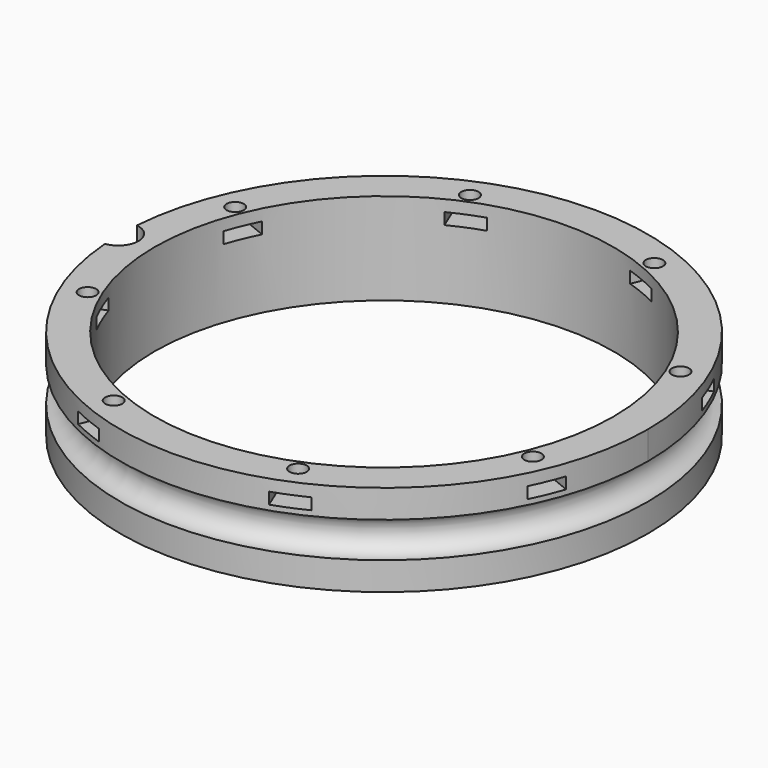
from build123d import *

# Parameters (mm, degrees)
BOX331_W                    = 6
BOX331_H                    = 8
BOX331_DEPTH                = 2
BOX331_PLACEMENT_ANGLE      = 45
BOX329_W                    = 6
BOX329_H                    = 8
BOX329_DEPTH                = 2
BOX328_W                    = 6
BOX328_H                    = 8
BOX328_DEPTH                = 2
BOX333_W                    = 6
BOX333_H                    = 8
BOX333_DEPTH                = 2
BOX333_PLACEMENT_ANGLE      = 135
BOX332_W                    = 6
BOX332_H                    = 8
BOX332_DEPTH                = 2
BOX327_W                    = 6
BOX327_H                    = 8
BOX327_DEPTH                = 2
BOX327_PLACEMENT_ANGLE      = 225
BOX330_W                    = 6
BOX330_H                    = 8
BOX330_DEPTH                = 2
BOX323_W                    = 6
BOX323_H                    = 8
BOX323_DEPTH                = 2
BOX323_PLACEMENT_ANGLE      = 45
COMPOUND696_PLACEMENT_ANGLE = 22.5
CYLINDER713_R               = 1.5
CYLINDER713_DEPTH           = 12
CYLINDER713_PLACEMENT_ANGLE = 45
CYLINDER712_R               = 1.5
CYLINDER712_DEPTH           = 12
CYLINDER711_R               = 1.5
CYLINDER711_DEPTH           = 12
CYLINDER711_PLACEMENT_ANGLE = 135
CYLINDER703_R               = 1.5
CYLINDER703_DEPTH           = 12
CYLINDER709_R               = 1.5
CYLINDER709_DEPTH           = 12
CYLINDER709_PLACEMENT_ANGLE = 225
CYLINDER710_R               = 1.5
CYLINDER710_DEPTH           = 12
CYLINDER698_R               = 1.5
CYLINDER698_DEPTH           = 12
CYLINDER698_PLACEMENT_ANGLE = 45
CYLINDER701_R               = 1.5
CYLINDER701_DEPTH           = 12
COMPOUND698_PLACEMENT_ANGLE = 22.5
CYLINDER694_R               = 3.5
CYLINDER694_DEPTH           = 20
TORUS006_R                  = 3.1
TUBE075_R                   = 46
TUBE075_R_2                 = 40
TUBE075_DEPTH               = 16


with BuildPart() as krychle331:
    # Box331 → Box331 (new body)
    with BuildSketch(Plane.XY):
        with Locations((3, 4)):
            Rectangle(BOX331_W, BOX331_H)
    extrude(amount=BOX331_DEPTH)


with BuildPart() as krychle331_1:
    # Box331 placement: moved
    add(krychle331.part.moved(Location((30.405592, -34.648232, 33))).rotate(Axis((30.405592, -34.648232, 33), (0, 0, 1)), BOX331_PLACEMENT_ANGLE))


with BuildPart() as krychle329:
    # Box329 → Box329 (new body)
    with BuildSketch(Plane(origin=(46, -3, 33), x_dir=(0, 1, 0), z_dir=(0, 0, 1))):
        with Locations((3, 4)):
            Rectangle(BOX329_W, BOX329_H)
    extrude(amount=BOX329_DEPTH)


with BuildPart() as krychle328:
    # Box328 → Box328 (new body)
    with BuildSketch(Plane(origin=(-3, -46, 33), x_dir=(1, 0, 0), z_dir=(0, 0, 1))):
        with Locations((3, 4)):
            Rectangle(BOX328_W, BOX328_H)
    extrude(amount=BOX328_DEPTH)


with BuildPart() as krychle333:
    # Box333 → Box333 (new body)
    with BuildSketch(Plane.XY):
        with Locations((3, 4)):
            Rectangle(BOX333_W, BOX333_H)
    extrude(amount=BOX333_DEPTH)


with BuildPart() as krychle333_1:
    # Box333 placement: moved
    add(krychle333.part.moved(Location((34.648232, 30.405592, 33))).rotate(Axis((34.648232, 30.405592, 33), (0, 0, 1)), BOX333_PLACEMENT_ANGLE))


with BuildPart() as krychle332:
    # Box332 → Box332 (new body)
    with BuildSketch(Plane(origin=(3, 46, 33), x_dir=(-1, 0, 0), z_dir=(0, 0, 1))):
        with Locations((3, 4)):
            Rectangle(BOX332_W, BOX332_H)
    extrude(amount=BOX332_DEPTH)


with BuildPart() as krychle327:
    # Box327 → Box327 (new body)
    with BuildSketch(Plane.XY):
        with Locations((3, 4)):
            Rectangle(BOX327_W, BOX327_H)
    extrude(amount=BOX327_DEPTH)


with BuildPart() as krychle327_1:
    # Box327 placement: moved
    add(krychle327.part.moved(Location((-30.405592, 34.648232, 33))).rotate(Axis((-30.405592, 34.648232, 33), (0, 0, 1)), BOX327_PLACEMENT_ANGLE))


with BuildPart() as krychle330:
    # Box330 → Box330 (new body)
    with BuildSketch(Plane(origin=(-46, 3, 33), x_dir=(0, -1, 0), z_dir=(0, 0, 1))):
        with Locations((3, 4)):
            Rectangle(BOX330_W, BOX330_H)
    extrude(amount=BOX330_DEPTH)


with BuildPart() as compound696:
    # Box323 → Box323 (new body)
    with BuildSketch(Plane.XY):
        with Locations((3, 4)):
            Rectangle(BOX323_W, BOX323_H)
    extrude(amount=BOX323_DEPTH)


with BuildPart() as compound696_1:
    # Box323 placement: moved
    add(compound696.part.moved(Location((-34.648232, -30.405592, 33))).rotate(Axis((-34.648232, -30.405592, 33), (0, 0, -1)), BOX323_PLACEMENT_ANGLE))

    # Compound696: union Krychle331, Krychle329, Krychle328, Krychle333, Krychle332, Krychle327, Krychle330
    add(krychle331_1.part)
    add(krychle329.part)
    add(krychle328.part)
    add(krychle333_1.part)
    add(krychle332.part)
    add(krychle327_1.part)
    add(krychle330.part)


with BuildPart() as compound696_2:
    # Compound696 placement: moved
    add(compound696_1.part.rotate(Axis((0, 0, 0), (0, 0, 1)), COMPOUND696_PLACEMENT_ANGLE))


with BuildPart() as obj1:
    # Cylinder713 → Cylinder713 (new body)
    with BuildSketch(Plane.XY):
        Circle(CYLINDER713_R)
    extrude(amount=CYLINDER713_DEPTH)


with BuildPart() as obj1_1:
    # Cylinder713 placement: moved
    add(obj1.part.moved(Location((29.698485, -29.698485, 33.5))).rotate(Axis((29.698485, -29.698485, 33.5), (0, 0, 1)), CYLINDER713_PLACEMENT_ANGLE))


with BuildPart() as obj2:
    # Cylinder712 → Cylinder712 (new body)
    with BuildSketch(Plane(origin=(42, 0, 33.5), x_dir=(0, 1, 0), z_dir=(0, 0, 1))):
        Circle(CYLINDER712_R)
    extrude(amount=CYLINDER712_DEPTH)


with BuildPart() as obj3:
    # Cylinder711 → Cylinder711 (new body)
    with BuildSketch(Plane.XY):
        Circle(CYLINDER711_R)
    extrude(amount=CYLINDER711_DEPTH)


with BuildPart() as obj3_1:
    # Cylinder711 placement: moved
    add(obj3.part.moved(Location((29.698485, 29.698485, 33.5))).rotate(Axis((29.698485, 29.698485, 33.5), (0, 0, 1)), CYLINDER711_PLACEMENT_ANGLE))


with BuildPart() as obj4:
    # Cylinder703 → Cylinder703 (new body)
    with BuildSketch(Plane(origin=(0, 42, 33.5), x_dir=(-1, 0, 0), z_dir=(0, 0, 1))):
        Circle(CYLINDER703_R)
    extrude(amount=CYLINDER703_DEPTH)


with BuildPart() as obj5:
    # Cylinder709 → Cylinder709 (new body)
    with BuildSketch(Plane.XY):
        Circle(CYLINDER709_R)
    extrude(amount=CYLINDER709_DEPTH)


with BuildPart() as obj5_1:
    # Cylinder709 placement: moved
    add(obj5.part.moved(Location((-29.698485, 29.698485, 33.5))).rotate(Axis((-29.698485, 29.698485, 33.5), (0, 0, 1)), CYLINDER709_PLACEMENT_ANGLE))


with BuildPart() as obj6:
    # Cylinder710 → Cylinder710 (new body)
    with BuildSketch(Plane(origin=(-42, 0, 33.5), x_dir=(0, -1, 0), z_dir=(0, 0, 1))):
        Circle(CYLINDER710_R)
    extrude(amount=CYLINDER710_DEPTH)


with BuildPart() as obj7:
    # Cylinder698 → Cylinder698 (new body)
    with BuildSketch(Plane.XY):
        Circle(CYLINDER698_R)
    extrude(amount=CYLINDER698_DEPTH)


with BuildPart() as obj7_1:
    # Cylinder698 placement: moved
    add(obj7.part.moved(Location((-29.698485, -29.698485, 33.5))).rotate(Axis((-29.698485, -29.698485, 33.5), (0, 0, -1)), CYLINDER698_PLACEMENT_ANGLE))


with BuildPart() as compound698:
    # Cylinder701 → Cylinder701 (new body)
    with BuildSketch(Plane(origin=(0, -42, 33.5), x_dir=(1, 0, 0), z_dir=(0, 0, 1))):
        Circle(CYLINDER701_R)
    extrude(amount=CYLINDER701_DEPTH)

    # Compound698: union obj1, obj2, obj3, obj4, obj5, obj6, obj7
    add(obj1_1.part)
    add(obj2.part)
    add(obj3_1.part)
    add(obj4.part)
    add(obj5_1.part)
    add(obj6.part)
    add(obj7_1.part)


with BuildPart() as compound698_1:
    # Compound698 placement: moved
    add(compound698.part.rotate(Axis((0, 0, 0), (0, 0, 1)), COMPOUND698_PLACEMENT_ANGLE))


with BuildPart() as obj8:
    # Cylinder694 → Cylinder694 (new body)
    with BuildSketch(Plane(origin=(-46.3, 0, 29), x_dir=(1, 0, 0), z_dir=(0, 0, 1))):
        Circle(CYLINDER694_R)
    extrude(amount=CYLINDER694_DEPTH)


with BuildPart() as obj9:
    # Torus006 → Torus006 (revolve)
    with BuildSketch(Plane(origin=(0, 0, 29), x_dir=(1, 0, 0), z_dir=(0, -1, 0))):
        with Locations((46, 0)):
            Circle(TORUS006_R)
    revolve(axis=Axis((0, 0, 29), (0, 0, 1)))


with BuildPart() as cut329:
    # Tube075 → Tube075 (new body)
    with BuildSketch(Plane.XY.offset(21)):
        Circle(TUBE075_R)
        Circle(TUBE075_R_2, mode=Mode.SUBTRACT)
    extrude(amount=TUBE075_DEPTH)

    # Cut325: cut obj9
    add(obj9.part, mode=Mode.SUBTRACT)

    # Cut326: cut obj8
    add(obj8.part, mode=Mode.SUBTRACT)

    # Cut328: cut Compound698
    add(compound698_1.part, mode=Mode.SUBTRACT)

    # Cut329: cut Compound696
    add(compound696_2.part, mode=Mode.SUBTRACT)


solid = cut329.part
